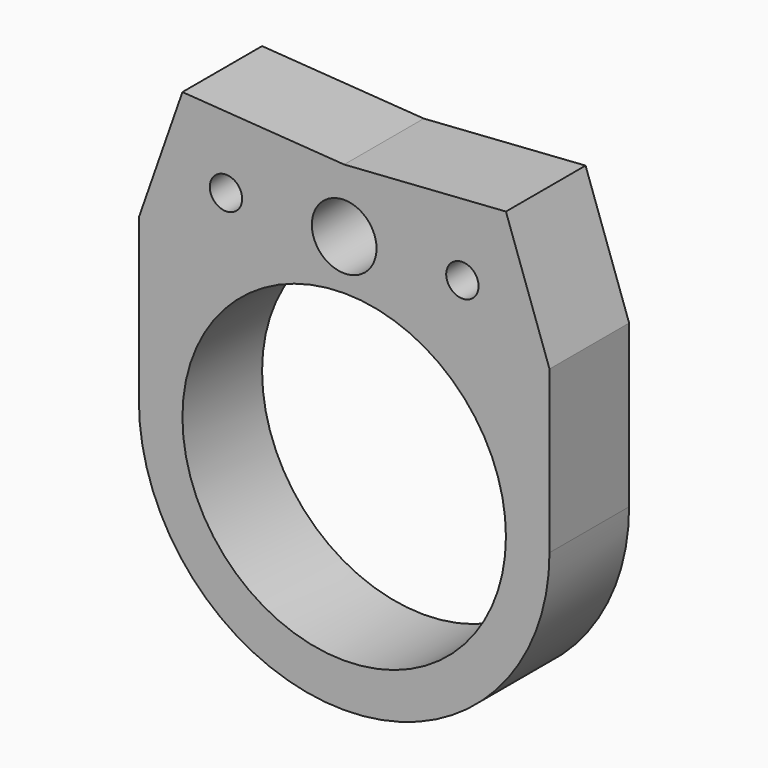
from build123d import *

# Parameters (mm, degrees)
F0_R     = 8.255
F1_DEPTH = 5.08
F3_DEPTH = 5.08
F4_R     = 1.651
F4_R_2   = 0.8255
F5_DEPTH = 25.4


with BuildPart() as f1:
    # F0 (on Front) → F1 (new body)
    with BuildSketch(Plane.XZ):
        with BuildLine():
            ThreePointArc((-10.4775, 0), (0, 10.4775), (10.4775, 0))
            Line((10.4775, 0), (10.4775, 8.255))
            Line((10.4775, 8.255), (6.0325, 10.795))
            Line((6.0325, 10.795), (-6.0325, 10.795))
            Line((-6.0325, 10.795), (-10.4775, 8.255))
            Line((-10.4775, 8.255), (-10.4775, 0))
        make_face()
        with BuildLine():
            ThreePointArc((-10.4775, 0), (0, -10.4775), (10.4775, 0))
            ThreePointArc((10.4775, 0), (0, 10.4775), (-10.4775, 0))
        make_face()
        Circle(F0_R, mode=Mode.SUBTRACT)
    extrude(amount=F1_DEPTH)

    # F2 (on face) → F3 (join)
    with BuildSketch(Plane.XZ.offset(5.08)):
        Polygon((0, 14.0335), (-8.255, 14.605), (-10.4775, 8.255), (-6.0325, 10.795), (6.0325, 10.795), (10.4775, 8.255), (8.255, 14.605), align=None)
    extrude(amount=-F3_DEPTH)

    # F4 (on face) → F5 (cut)
    with BuildSketch(Plane.XZ.offset(5.08)):
        with Locations((0, 10.795)):
            Circle(F4_R)
        with Locations((6.0325, 10.795)):
            Circle(F4_R_2)
        with Locations((-6.0325, 10.795)):
            Circle(F4_R_2)
    extrude(amount=-F5_DEPTH, mode=Mode.SUBTRACT)


solid = f1.part
